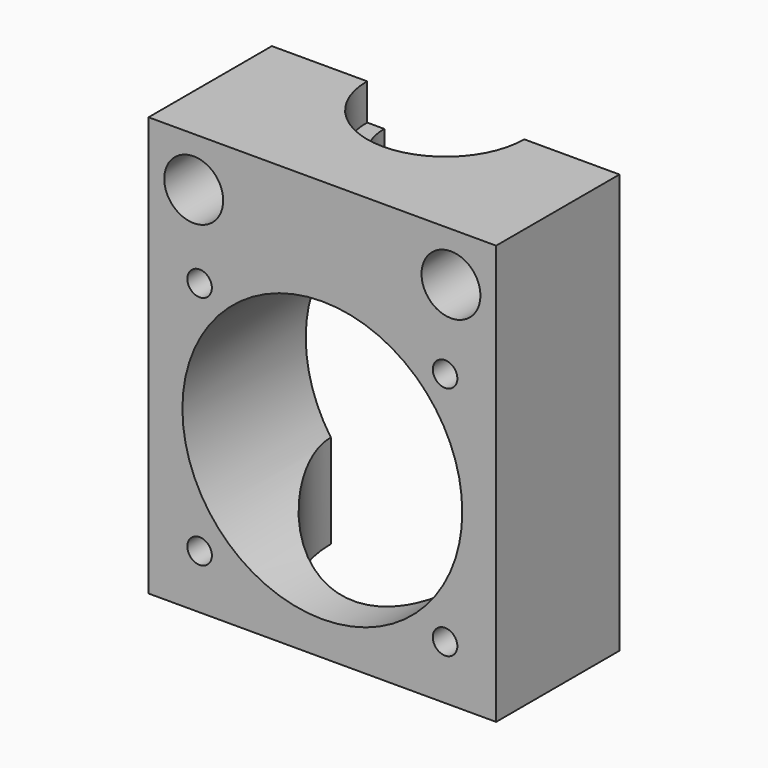
from build123d import *

# Parameters (mm, degrees)
F0_W      = 35.4
F0_H      = 15.7
F1_DEPTH  = 42.7
F3_DEPTH  = 3.7
F5_DEPTH  = 6
F6_R      = 11.7
F7_DEPTH  = 35
F8_R      = 14.25
F9_DEPTH  = 25
F10_R     = 1.25
F11_DEPTH = 4.5
F12_R     = 1.75
F13_DEPTH = 25
F14_R     = 3
F14_R_2   = 1.75
F15_DEPTH = 7.85


with BuildPart() as f1:
    # F0 (on Top) → F1 (new body)
    with BuildSketch(Plane.XY):
        with Locations((17.7, 7.85)):
            Rectangle(F0_W, F0_H)
    extrude(amount=F1_DEPTH)

    # F2 (on face) → F3 (cut)
    with BuildSketch(Plane.XY.offset(42.7)):
        with BuildLine():
            ThreePointArc((9.7, 15.7), (17.7, 7.7), (25.7, 15.7))
            Line((25.7, 15.7), (9.7, 15.7))
        make_face()
    extrude(amount=-F3_DEPTH, mode=Mode.SUBTRACT)

    # F4 (on face) → F5 (cut)
    with BuildSketch(Plane.XY.offset(39)):
        with BuildLine():
            ThreePointArc((11.45, 15.7), (17.7, 9.45), (23.95, 15.7))
            Line((23.95, 15.7), (11.45, 15.7))
        make_face()
    extrude(amount=-F5_DEPTH, mode=Mode.SUBTRACT)

    # F6 (on face) → F7 (cut)
    with BuildSketch(Plane.XY.offset(33)):
        with Locations((17.7, 15.7)):
            Circle(F6_R)
        with BuildLine():
            Line((11.45, 15.7), (23.95, 15.7))
            ThreePointArc((23.95, 15.7), (17.7, 9.45), (11.45, 15.7))
        make_face(mode=Mode.SUBTRACT)
        with BuildLine():
            ThreePointArc((11.45, 15.7), (17.7, 9.45), (23.95, 15.7))
            Line((23.95, 15.7), (11.45, 15.7))
        make_face()
    extrude(amount=-F7_DEPTH, mode=Mode.SUBTRACT)

    # F8 (on face) → F9 (cut)
    with BuildSketch(Plane.XZ):
        with Locations((17.7, 17.7)):
            Circle(F8_R)
    extrude(amount=-F9_DEPTH, mode=Mode.SUBTRACT)

    # F10 (on face) → F11 (cut)
    with BuildSketch(Plane.XZ):
        with Locations((5.2, 5.5)):
            Circle(F10_R)
        with Locations((5.2, 29.5)):
            Circle(F10_R)
        with Locations((30.2, 29.5)):
            Circle(F10_R)
        with Locations((30.2, 5.5)):
            Circle(F10_R)
    extrude(amount=-F11_DEPTH, mode=Mode.SUBTRACT)

    # F12 (on face) → F13 (cut)
    with BuildSketch(Plane(origin=(0, 15.7, 0), x_dir=(-1, 0, 0), z_dir=(0, 1, 0))):
        with Locations((-4.6, 37.7)):
            Circle(F12_R)
        with Locations((-30.8, 37.7)):
            Circle(F12_R)
    extrude(amount=-F13_DEPTH, mode=Mode.SUBTRACT)

    # F14 (on face) → F15 (cut)
    with BuildSketch(Plane.XZ):
        with Locations((4.6, 37.7)):
            Circle(F14_R)
        with Locations((4.6, 37.7)):
            Circle(F14_R_2, mode=Mode.SUBTRACT)
        with Locations((30.8, 37.7)):
            Circle(F14_R)
        with Locations((30.8, 37.7)):
            Circle(F14_R_2, mode=Mode.SUBTRACT)
    extrude(amount=-F15_DEPTH, mode=Mode.SUBTRACT)


solid = f1.part
